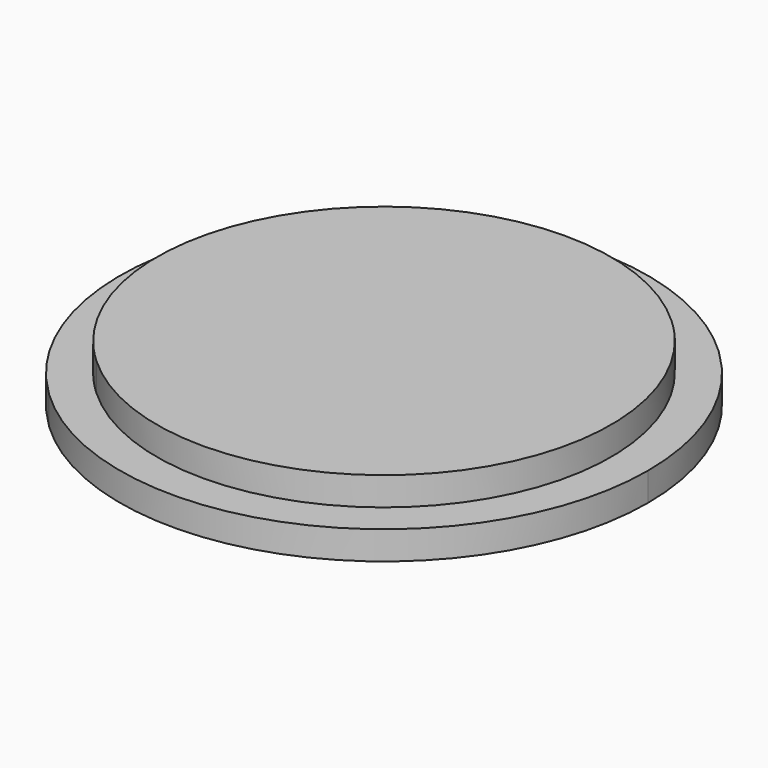
from build123d import *

# Parameters (mm, degrees)
F1_DEPTH = 5
F2_DEPTH = 5


with BuildPart() as f1:
    # F0 (on Top) → F1 (new body)
    with BuildSketch(Plane.XY):
        with BuildLine():
            ThreePointArc((-30.6627800902, -25.6864539619), (-28.9974298761, -27.5526597732), (-27.2186976186, -29.3111326965))
            Line((-27.2186976186, -29.3111326965), (1.7220412358, -1.8123393673))
            Line((1.7220412358, -1.8123393673), (0, 0))
            Line((0, 0), (-1.7220412358, 1.8123393673))
            Line((-1.7220412358, 1.8123393673), (-30.6627800902, -25.6864539619))
        make_face()
        with BuildLine():
            Line((1.7220412358, -1.8123393673), (30.6627800902, 25.6864539619))
            ThreePointArc((30.6627800902, 25.6864539619), (28.9974298761, 27.5526597732), (27.2186976186, 29.3111326965))
            Line((27.2186976186, 29.3111326965), (-1.7220412358, 1.8123393673))
            Line((-1.7220412358, 1.8123393673), (0, 0))
            Line((0, 0), (1.7220412358, -1.8123393673))
        make_face()
        with BuildLine():
            Line((-1.7220412358, 1.8123393673), (27.2186976186, 29.3111326965))
            ThreePointArc((27.2186976186, 29.3111326965), (-27.5526597732, 28.9974298761), (-30.6627800902, -25.6864539619))
            Line((-30.6627800902, -25.6864539619), (-1.7220412358, 1.8123393673))
        make_face()
        with BuildLine():
            ThreePointArc((-27.2186976186, -29.3111326965), (15.9883097177, -36.6657053985), (40, 0))
            ThreePointArc((40, 0), (37.5932919788, 13.6654454079), (30.6627800902, 25.6864539619))
            Line((30.6627800902, 25.6864539619), (1.7220412358, -1.8123393673))
            Line((1.7220412358, -1.8123393673), (-27.2186976186, -29.3111326965))
        make_face()
    extrude(amount=F1_DEPTH)

    # F0 (on Top) → F2 (join)
    with BuildSketch(Plane.XY):
        with BuildLine():
            Line((1.7220412358, -1.8123393673), (30.6627800902, 25.6864539619))
            ThreePointArc((30.6627800902, 25.6864539619), (28.9974298761, 27.5526597732), (27.2186976186, 29.3111326965))
            Line((27.2186976186, 29.3111326965), (-1.7220412358, 1.8123393673))
            Line((-1.7220412358, 1.8123393673), (0, 0))
            Line((0, 0), (1.7220412358, -1.8123393673))
        make_face()
        with BuildLine():
            ThreePointArc((-30.6627800902, -25.6864539619), (-28.9974298761, -27.5526597732), (-27.2186976186, -29.3111326965))
            Line((-27.2186976186, -29.3111326965), (1.7220412358, -1.8123393673))
            Line((1.7220412358, -1.8123393673), (0, 0))
            Line((0, 0), (-1.7220412358, 1.8123393673))
            Line((-1.7220412358, 1.8123393673), (-30.6627800902, -25.6864539619))
        make_face()
        with BuildLine():
            ThreePointArc((27.2186976186, 29.3111326965), (28.9974298761, 27.5526597732), (30.6627800902, 25.6864539619))
            Line((30.6627800902, 25.6864539619), (35.3827994101, 30.1713026882))
            Line((35.3827994101, 30.1713026882), (31.9387169385, 33.7959814227))
            Line((31.9387169385, 33.7959814227), (27.2186976186, 29.3111326965))
        make_face()
        with BuildLine():
            Line((-31.9387169385, -33.7959814227), (-27.2186976186, -29.3111326965))
            ThreePointArc((-27.2186976186, -29.3111326965), (-28.9974298761, -27.5526597732), (-30.6627800902, -25.6864539619))
            Line((-30.6627800902, -25.6864539619), (-35.3827994101, -30.1713026882))
            Line((-35.3827994101, -30.1713026882), (-31.9387169385, -33.7959814227))
        make_face()
        with BuildLine():
            ThreePointArc((30.6627800902, 25.6864539619), (37.5932919788, 13.6654454079), (40, 0))
            ThreePointArc((40, 0), (15.9883097177, -36.6657053985), (-27.2186976186, -29.3111326965))
            Line((-27.2186976186, -29.3111326965), (-31.9387169385, -33.7959814227))
            ThreePointArc((-31.9387169385, -33.7959814227), (18.3997236713, -42.7048026435), (46.5, 0))
            ThreePointArc((46.5, 0), (43.6322711566, 16.0771550255), (35.3827994101, 30.1713026882))
            Line((35.3827994101, 30.1713026882), (30.6627800902, 25.6864539619))
        make_face()
        with BuildLine():
            ThreePointArc((-30.6627800902, -25.6864539619), (-27.5526597732, 28.9974298761), (27.2186976186, 29.3111326965))
            Line((27.2186976186, 29.3111326965), (31.9387169385, 33.7959814227))
            ThreePointArc((31.9387169385, 33.7959814227), (-32.0299669864, 33.709512231), (-35.3827994101, -30.1713026882))
            Line((-35.3827994101, -30.1713026882), (-30.6627800902, -25.6864539619))
        make_face()
        with BuildLine():
            ThreePointArc((-27.2186976186, -29.3111326965), (15.9883097177, -36.6657053985), (40, 0))
            ThreePointArc((40, 0), (37.5932919788, 13.6654454079), (30.6627800902, 25.6864539619))
            Line((30.6627800902, 25.6864539619), (1.7220412358, -1.8123393673))
            Line((1.7220412358, -1.8123393673), (-27.2186976186, -29.3111326965))
        make_face()
        with BuildLine():
            Line((-1.7220412358, 1.8123393673), (27.2186976186, 29.3111326965))
            ThreePointArc((27.2186976186, 29.3111326965), (-27.5526597732, 28.9974298761), (-30.6627800902, -25.6864539619))
            Line((-30.6627800902, -25.6864539619), (-1.7220412358, 1.8123393673))
        make_face()
    extrude(amount=-F2_DEPTH)


solid = f1.part
